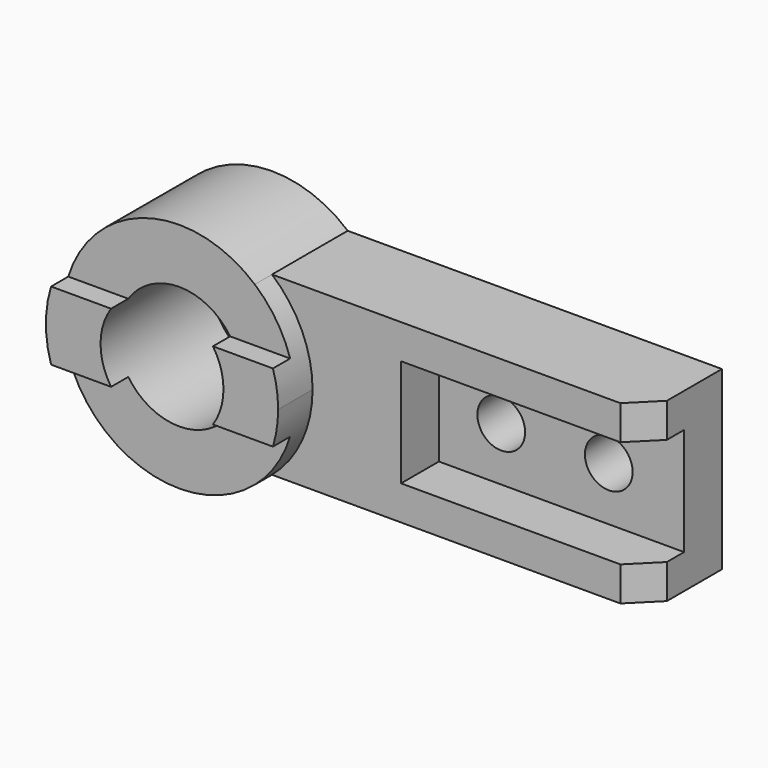
from build123d import *

# Parameters (mm, degrees)
F0_R     = 28.575
F1_DEPTH = 64
F2_DEPTH = 44
F3_R     = 11.1
F4_DEPTH = 44.001
F3_W     = 114
F3_H     = 50
F5_DEPTH = 22
F7_DEPTH = 10
F9_DEPTH = 95.001


with BuildPart() as f1:
    # F0 (on Front) → F1 (new body)
    with BuildSketch(Plane.XZ):
        with BuildLine():
            ThreePointArc((35.142567, -41), (49.05965, -22.564368), (54, 0))
            ThreePointArc((54, 0), (49.05965, 22.564368), (35.142567, 41))
            ThreePointArc((35.142567, 41), (-54, 0), (35.142567, -41))
        make_face()
        Circle(F0_R, mode=Mode.SUBTRACT)
    extrude(amount=F1_DEPTH)

    # F0 (on Front) → F2 (join)
    with BuildSketch(Plane.XZ):
        with BuildLine():
            ThreePointArc((35.142567, 41), (49.05965, 22.564368), (54, 0))
            ThreePointArc((54, 0), (49.05965, -22.564368), (35.142567, -41))
            Line((35.142567, -41), (209.142567, -41))
            Line((209.142567, -41), (209.142567, 41))
            Line((209.142567, 41), (35.142567, 41))
        make_face()
    extrude(amount=F2_DEPTH)

    # F3 (on face) → F4 (cut, through all)
    with BuildSketch(Plane.XZ.offset(44)):
        with Locations((174.142567, 0)):
            Circle(F3_R)
        with Locations((124.142567, 0)):
            Circle(F3_R)
    extrude(amount=-F4_DEPTH, mode=Mode.SUBTRACT)

    # F3 (on face) → F5 (cut)
    with BuildSketch(Plane.XZ.offset(44)):
        with Locations((152.142567, 0)):
            Rectangle(F3_W, F3_H)
        with Locations((124.142567, 0)):
            Circle(F3_R, mode=Mode.SUBTRACT)
        with Locations((174.142567, 0)):
            Circle(F3_R, mode=Mode.SUBTRACT)
    extrude(amount=-F5_DEPTH, mode=Mode.SUBTRACT)

    # F6 (on face) → F7 (cut)
    with BuildSketch(Plane.XZ.offset(64)):
        with BuildLine():
            ThreePointArc((51.575188, 16), (0, 54), (-51.575188, 16))
            Line((-51.575188, 16), (-23.675528, 16))
            ThreePointArc((-23.675528, 16), (0, 28.575), (23.675528, 16))
            Line((23.675528, 16), (51.575188, 16))
        make_face()
        with BuildLine():
            Line((-23.675528, -16), (-51.575188, -16))
            ThreePointArc((-51.575188, -16), (0, -54), (51.575188, -16))
            Line((51.575188, -16), (23.675528, -16))
            ThreePointArc((23.675528, -16), (0, -28.575), (-23.675528, -16))
        make_face()
    extrude(amount=-F7_DEPTH, mode=Mode.SUBTRACT)

    # F8 (on face) → F9 (cut, through all)
    with BuildSketch(Plane.XY.offset(41)):
        Polygon((197.142567, -44), (209.142567, -44), (209.142567, -32), align=None)
    extrude(amount=-F9_DEPTH, mode=Mode.SUBTRACT)


solid = f1.part
